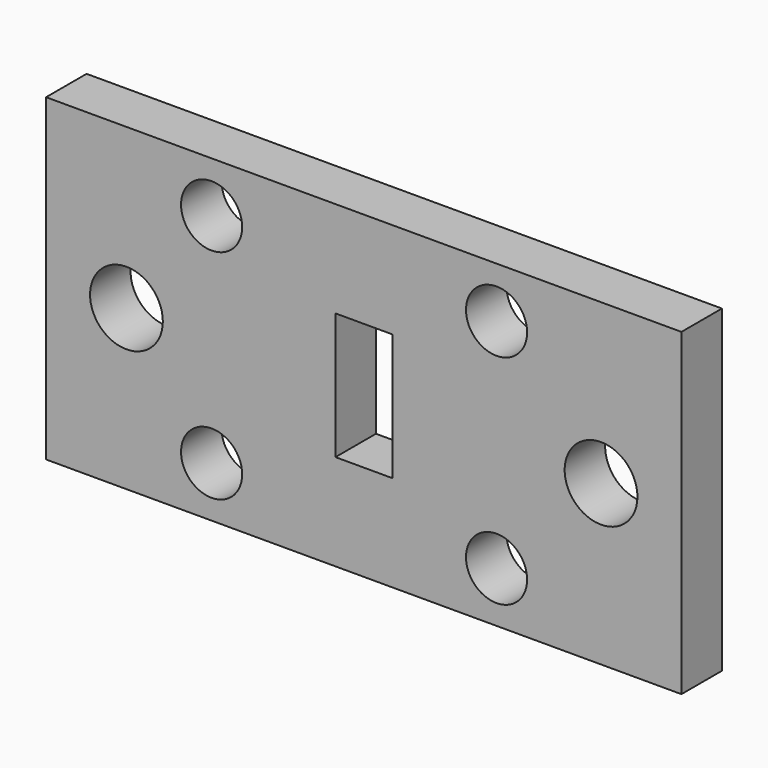
from build123d import *

# Parameters (mm, degrees)
F0_W     = 1275.08
F0_H     = 640.08
F0_R     = 61.341
F0_R_2   = 73.025
F0_W_2   = 114.3
F0_H_2   = 254
F1_DEPTH = 101.6


with BuildPart() as f1:
    # F0 (on Front) → F1 (new body)
    with BuildSketch(Plane.XZ):
        Rectangle(F0_W, F0_H)
        with Locations((-305.3715, -218.44)):
            Circle(F0_R, mode=Mode.SUBTRACT)
        with Locations((266.5095, -218.44)):
            Circle(F0_R, mode=Mode.SUBTRACT)
        with Locations((-476.25, 0)):
            Circle(F0_R_2, mode=Mode.SUBTRACT)
        with Locations((-305.3715, 218.44)):
            Circle(F0_R, mode=Mode.SUBTRACT)
        with Locations((0.381, 0)):
            Rectangle(F0_W_2, F0_H_2, mode=Mode.SUBTRACT)
        with Locations((476.25, 0)):
            Circle(F0_R_2, mode=Mode.SUBTRACT)
        with Locations((266.5095, 218.44)):
            Circle(F0_R, mode=Mode.SUBTRACT)
    extrude(amount=F1_DEPTH)


solid = f1.part
